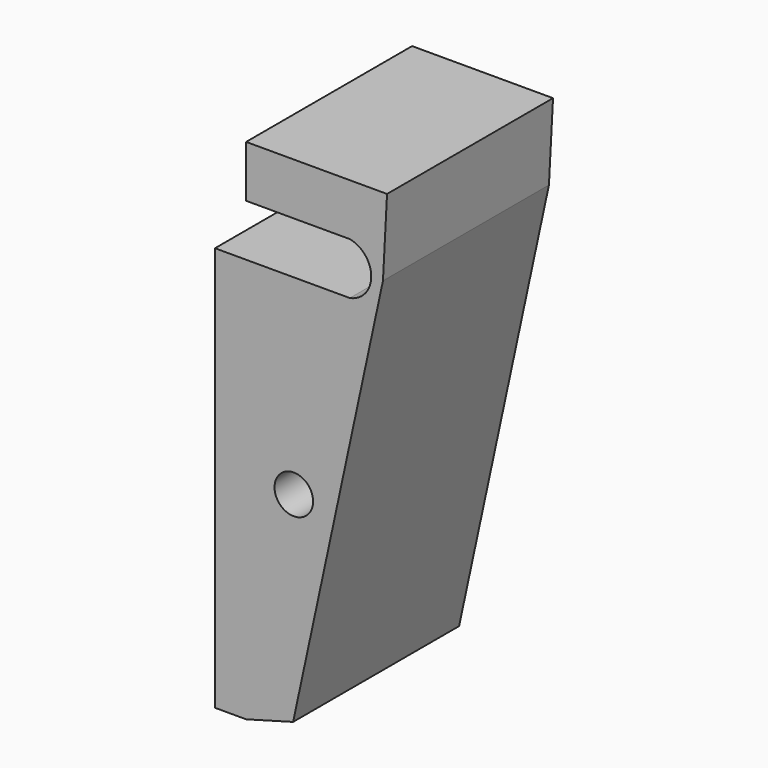
from build123d import *

# Parameters (mm, degrees)
F0_R     = 1.859263
F1_DEPTH = 20


with BuildPart() as f1:
    # F0 (on Front) → F1 (new body)
    with BuildSketch(Plane.XZ):
        with BuildLine():
            Line((7.105112, -22.402996), (15.766404, 17.846351))
            Line((15.766404, 17.846351), (16.159307, 25.346351))
            Line((16.159307, 25.346351), (2.574564, 25.346351))
            Line((2.574564, 25.346351), (2.574564, 20.346351))
            Line((2.574564, 20.346351), (12.574564, 20.346351))
            ThreePointArc((12.574564, 20.346351), (14.639156, 17.846351), (12.574564, 15.346351))
            Line((12.574564, 15.346351), (2.574564, 15.346351))
            Line((2.574564, 15.346351), (2.574564, 11.346351))
            Line((2.574564, 11.346351), (2.574564, -23.653649))
            Line((2.574564, -23.653649), (7.105112, -22.402996))
        make_face()
        with Locations((7.173434, -3.071841)):
            Circle(F0_R, mode=Mode.SUBTRACT)
        Polygon((-0.425436, -23.653649), (2.574564, -23.653649), (2.574564, 11.346351), (2.574564, 15.346351), (-0.425436, 15.346351), align=None)
    extrude(amount=F1_DEPTH)


solid = f1.part
